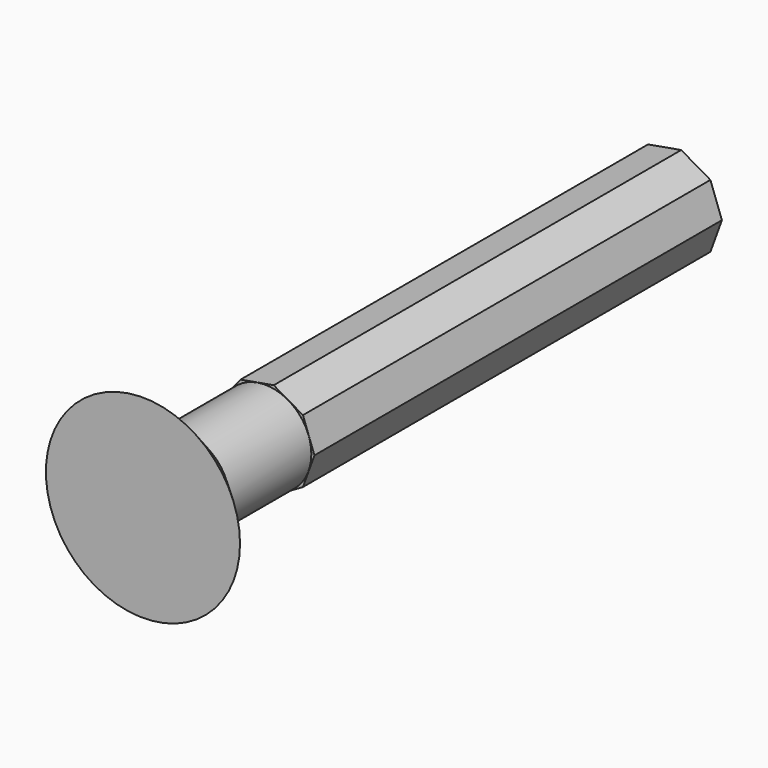
from build123d import *

# Parameters (mm, degrees)
F1_DEPTH  = 150
F2_R      = 13.5859557656
F3_DEPTH  = 30
F3_FACE_R = 13.5859557656
F4_DEPTH  = 15
F4_TAPER  = -45


with BuildPart() as f1:
    # F0 (on Front) → F1 (new body)
    with BuildSketch(Plane.XZ):
        Polygon((-13.63390591, 4.962335928), (-13.63390591, -4.962335928), (-7.2544498107, -12.5650756531), (2.5194439792, -14.2884768348), (11.1144619307, -9.3261409068), (14.5088996214, 0), (11.1144619307, 9.3261409068), (2.5194439792, 14.2884768348), (-7.2544498107, 12.5650756531), align=None)
    extrude(amount=F1_DEPTH)

    # F2 (on face) → F3 (join)
    with BuildSketch(Plane.XZ.offset(150)):
        Circle(F2_R)
    extrude(amount=F3_DEPTH)

    # F3_face (on face) → F4 (join)
    with BuildSketch(Plane.XZ.offset(180)):
        Circle(F3_FACE_R)
    extrude(amount=F4_DEPTH, taper=F4_TAPER)


solid = f1.part
